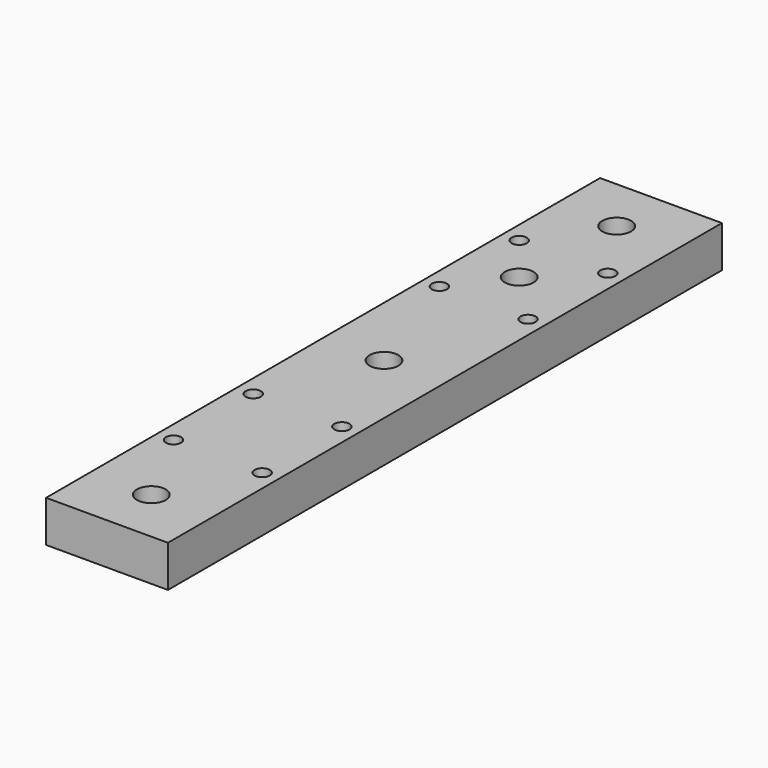
from build123d import *

# Parameters (mm, degrees)
SKETCH_W        = 44
SKETCH_H        = 250
PAD_DEPTH       = 15
SKETCH001_R     = 3.25
POCKET_DEPTH    = 15
SKETCH002_R     = 2.75
POCKET001_DEPTH = 15
SKETCH003_R     = 5.2
POCKET002_DEPTH = 6
SKETCH004_R     = 5.2
POCKET003_DEPTH = 15


with BuildPart() as part:
    # Sketch → Pad (new body)
    with BuildSketch(Plane.XY):
        with Locations((22, 125)):
            Rectangle(SKETCH_W, SKETCH_H)
    extrude(amount=PAD_DEPTH)

    # Sketch001 (on Face6 of Pad) → Pocket (cut)
    with BuildSketch(Plane.XY.offset(15)):
        with Locations((22, 230)):
            Circle(SKETCH001_R)
        with Locations((22, 125)):
            Circle(SKETCH001_R)
        with Locations((22, 20)):
            Circle(SKETCH001_R)
    extrude(amount=-POCKET_DEPTH, mode=Mode.SUBTRACT)

    # Sketch002 (on Face5 of Pocket) → Pocket001 (cut)
    with BuildSketch(Plane.XY.offset(15)):
        with Locations((6, 206)):
            Circle(SKETCH002_R)
        with Locations((38, 206)):
            Circle(SKETCH002_R)
        with Locations((6, 170)):
            Circle(SKETCH002_R)
        with Locations((38, 170)):
            Circle(SKETCH002_R)
        with Locations((6, 86)):
            Circle(SKETCH002_R)
        with Locations((38, 86)):
            Circle(SKETCH002_R)
        with Locations((6, 50)):
            Circle(SKETCH002_R)
        with Locations((38, 50)):
            Circle(SKETCH002_R)
    extrude(amount=-POCKET001_DEPTH, mode=Mode.SUBTRACT)

    # Sketch003 (on Face5 of Pocket001) → Pocket002 (cut)
    with BuildSketch(Plane.XY.offset(15)):
        with Locations((22, 20)):
            Circle(SKETCH003_R)
        with Locations((22, 125)):
            Circle(SKETCH003_R)
        with Locations((22, 230)):
            Circle(SKETCH003_R)
    extrude(amount=-POCKET002_DEPTH, mode=Mode.SUBTRACT)

    # Sketch004 (on Face5 of Pocket002) → Pocket003 (cut)
    with BuildSketch(Plane.XY.offset(15)):
        with Locations((20, 188.5)):
            Circle(SKETCH004_R)
    extrude(amount=-POCKET003_DEPTH, mode=Mode.SUBTRACT)


solid = part.part
